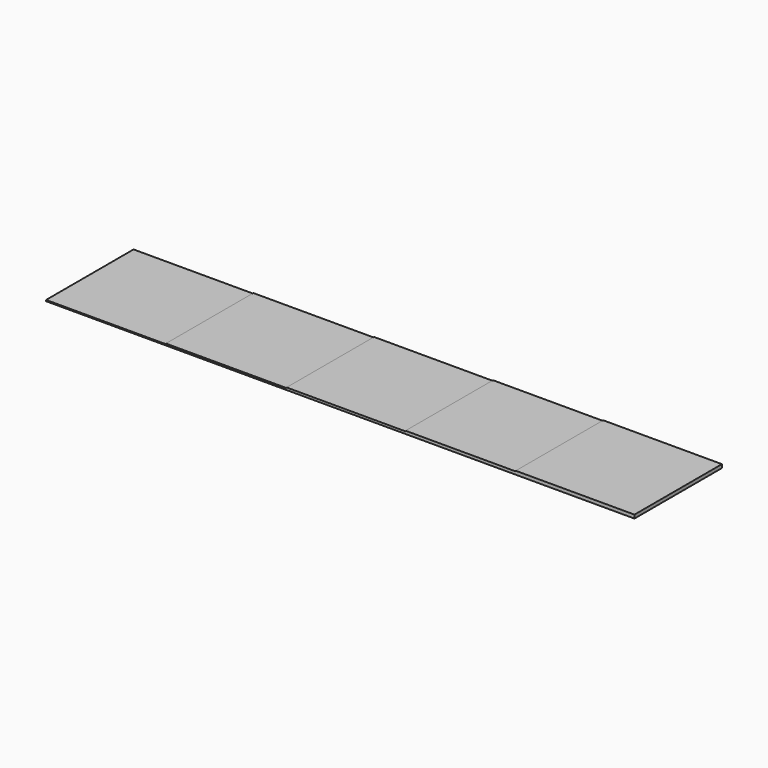
from build123d import *

# Parameters (mm, degrees)
F0_W     = 20.581514
F0_H     = 18.778749
F1_DEPTH = 0.2
F0_W_2   = 20.731736
F2_DEPTH = 0.3
F0_W_3   = 20.43128
F3_DEPTH = 0.4
F0_W_4   = 18.928978
F4_DEPTH = 0.5
F0_W_5   = 20.396158
F5_DEPTH = 0.6


with BuildPart() as f1:
    # F0 (on Top) → F1 (new body)
    with BuildSketch(Plane.XY):
        with Locations((10.290757, -9.389374)):
            Rectangle(F0_W, F0_H)
    extrude(amount=F1_DEPTH)

    # F0 (on Top) → F2 (join)
    with BuildSketch(Plane.XY):
        with Locations((30.947382, -9.389374)):
            Rectangle(F0_W_2, F0_H)
    extrude(amount=F2_DEPTH)

    # F0 (on Top) → F3 (join)
    with BuildSketch(Plane.XY):
        with Locations((51.52889, -9.389374)):
            Rectangle(F0_W_3, F0_H)
    extrude(amount=F3_DEPTH)

    # F0 (on Top) → F4 (join)
    with BuildSketch(Plane.XY):
        with Locations((71.209019, -9.389374)):
            Rectangle(F0_W_4, F0_H)
    extrude(amount=F4_DEPTH)

    # F0 (on Top) → F5 (join)
    with BuildSketch(Plane.XY):
        with Locations((90.871587, -9.389374)):
            Rectangle(F0_W_5, F0_H)
    extrude(amount=F5_DEPTH)


solid = f1.part
